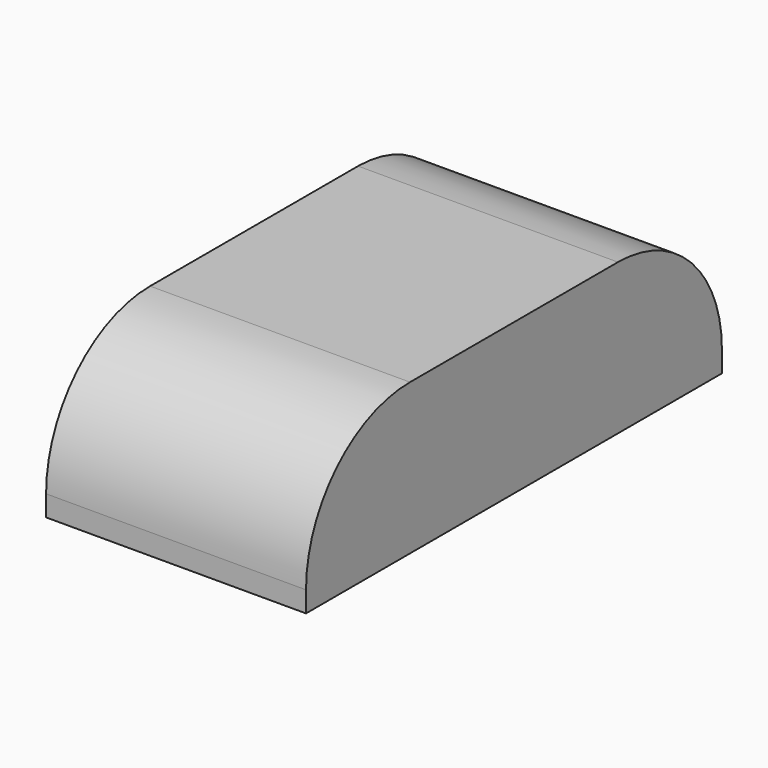
from build123d import *

# Parameters (mm, degrees)
F5_W      = 10
F5_H      = 20
F6_DEPTH  = 5.8
F0_R      = 3
F2_R      = 3
F9_R      = 5
F11_DEPTH = 0.2


with BuildPart() as f6:
    # F5 (on offset) → F6 (new body)
    with BuildSketch(Plane.XY.offset(4.1)):
        with Locations((0, -95.8120375872)):
            Rectangle(F5_W, F5_H)
    extrude(amount=-F6_DEPTH)

    # F0 (on Front) → F7 (revolve, cut)
    with BuildSketch(Plane.XZ):
        with Locations((-91.5, 0)):
            Circle(F0_R)
    revolve(axis=Axis((0, 0, 0), (0, 0, 1)), mode=Mode.SUBTRACT)

    # F2 (on Front) → F8 (revolve, cut)
    with BuildSketch(Plane.XZ):
        with Locations((-100, 0)):
            Circle(F2_R)
    revolve(axis=Axis((0, 0, 0), (0, 0, 1)), mode=Mode.SUBTRACT)

    # F9
    f9_edges = [f6.edges().sort_by_distance(p)[0] for p in [
        (0, -105.812038, 4.1),
        (0, -85.812038, 4.1),
    ]]
    fillet(f9_edges, radius=F9_R)

    # F10 (on face) → F11 (join)
    with BuildSketch(Plane.YZ.offset(5)):
        with BuildLine():
            Line((-90.8120375872, 4.1), (-100.8120375872, 4.1))
            ThreePointArc((-100.8120375872, 4.1), (-104.3475714931, 2.6355339059), (-105.8120375872, -0.9))
            Line((-105.8120375872, -0.9), (-105.8120375872, -1.7))
            Line((-105.8120375872, -1.7), (-85.8120375872, -1.7))
            Line((-85.8120375872, -1.7), (-85.8120375872, -0.9))
            ThreePointArc((-85.8120375872, -0.9), (-87.2765036812, 2.6355339059), (-90.8120375872, 4.1))
        make_face()
    extrude(amount=-F11_DEPTH)


solid = f6.part
